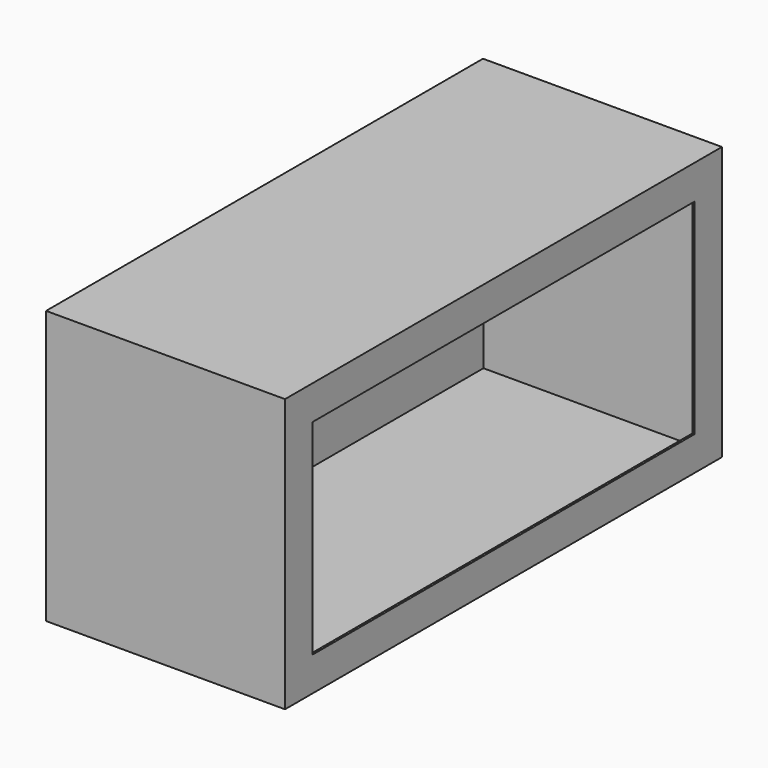
from build123d import *

# Parameters (mm, degrees)
F0_W      = 812.8
F0_H      = 406.4
F1_DEPTH  = 355.6
F2_W      = 711.2
F2_H      = 304.8
F3_DEPTH  = 352.425
F4_W      = 349.25
F4_H      = 304.8
F5_DEPTH  = 47.625
F6_W      = 349.25
F6_H      = 304.8
F7_DEPTH  = 47.625
F8_W      = 349.25
F8_H      = 806.45
F9_DEPTH  = 47.625
F10_W     = 349.25
F10_H     = 806.45
F11_DEPTH = 47.625


with BuildPart() as f1:
    # F0 (on Right) → F1 (new body)
    with BuildSketch(Plane.YZ):
        Rectangle(F0_W, F0_H)
    extrude(amount=-F1_DEPTH)

    # F2 (on face) → F3 (cut)
    with BuildSketch(Plane.YZ):
        Rectangle(F2_W, F2_H)
    extrude(amount=-F3_DEPTH, mode=Mode.SUBTRACT)

    # F4 (on face) → F5 (cut)
    with BuildSketch(Plane(origin=(0, -355.6, 0), x_dir=(-1, 0, 0), z_dir=(0, 1, 0))):
        with Locations((177.8, 0)):
            Rectangle(F4_W, F4_H)
    extrude(amount=-F5_DEPTH, mode=Mode.SUBTRACT)

    # F6 (on face) → F7 (cut)
    with BuildSketch(Plane.XZ.offset(-355.6)):
        with Locations((-177.8, 0)):
            Rectangle(F6_W, F6_H)
    extrude(amount=-F7_DEPTH, mode=Mode.SUBTRACT)

    # F8 (on face) → F9 (cut)
    with BuildSketch(Plane(origin=(0, 0, 152.4), x_dir=(1, 0, 0), z_dir=(0, 0, -1))):
        with Locations((-177.8, 0)):
            Rectangle(F8_W, F8_H)
    extrude(amount=-F9_DEPTH, mode=Mode.SUBTRACT)

    # F10 (on face) → F11 (cut)
    with BuildSketch(Plane.XY.offset(-152.4)):
        with Locations((-177.8, 0)):
            Rectangle(F10_W, F10_H)
    extrude(amount=-F11_DEPTH, mode=Mode.SUBTRACT)


solid = f1.part
